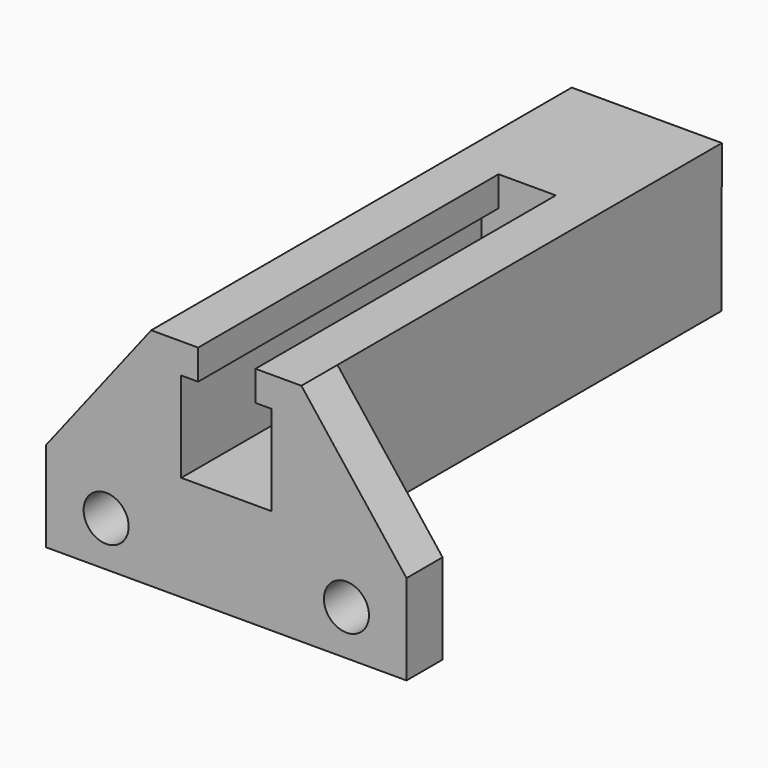
from build123d import *

# Parameters (mm, degrees)
F0_R     = 1.5
F0_W     = 3.8139913231
F0_H     = 2
F1_DEPTH = 3
F2_DEPTH = 35
F3_DEPTH = 25


with BuildPart() as f1:
    # F0 (on Front) → F1 (new body)
    with BuildSketch(Plane.XZ):
        Polygon((7, -9.8663857207), (7, 0), (0, -9), (0, -15), (24, -15), (24, -9), (17, 0), (16.9568490237, -9.8663857207), align=None)
        with Locations((4, -12)):
            Circle(F0_R, mode=Mode.SUBTRACT)
        with Locations((20, -12)):
            Circle(F0_R, mode=Mode.SUBTRACT)
        Polygon((10.1258195937, 0), (7, 0), (7, -9.8663857207), (16.9568490237, -9.8663857207), (17, 0), (13.9398109168, 0), (13.9398109168, -2), (15, -2), (15, -8), (9, -8), (9, -2), (10.1258195937, -2), align=None)
        with Locations((12.0328152552, -1)):
            Rectangle(F0_W, F0_H)
        Polygon((7, -9.8663857207), (7, 0), (0, -9), (0, -15), (24, -15), (24, -9), (17, 0), (16.9568490237, -9.8663857207), align=None)
        with Locations((4, -12)):
            Circle(F0_R, mode=Mode.SUBTRACT)
        with Locations((20, -12)):
            Circle(F0_R, mode=Mode.SUBTRACT)
        Polygon((13.9398109168, -2), (10.1258195937, -2), (9, -2), (9, -8), (15, -8), (15, -2), align=None)
    extrude(amount=-F1_DEPTH)

    # F0 (on Front) → F2 (join)
    with BuildSketch(Plane.XZ):
        Polygon((10.1258195937, 0), (7, 0), (7, -9.8663857207), (16.9568490237, -9.8663857207), (17, 0), (13.9398109168, 0), (13.9398109168, -2), (15, -2), (15, -8), (9, -8), (9, -2), (10.1258195937, -2), align=None)
        Polygon((13.9398109168, -2), (10.1258195937, -2), (9, -2), (9, -8), (15, -8), (15, -2), align=None)
        with Locations((12.0328152552, -1)):
            Rectangle(F0_W, F0_H)
    extrude(amount=-F2_DEPTH)

    # F0 (on Front) → F3 (cut)
    with BuildSketch(Plane.XZ):
        with Locations((12.0328152552, -1)):
            Rectangle(F0_W, F0_H)
        Polygon((13.9398109168, -2), (10.1258195937, -2), (9, -2), (9, -8), (15, -8), (15, -2), align=None)
    extrude(amount=-F3_DEPTH, mode=Mode.SUBTRACT)


solid = f1.part
